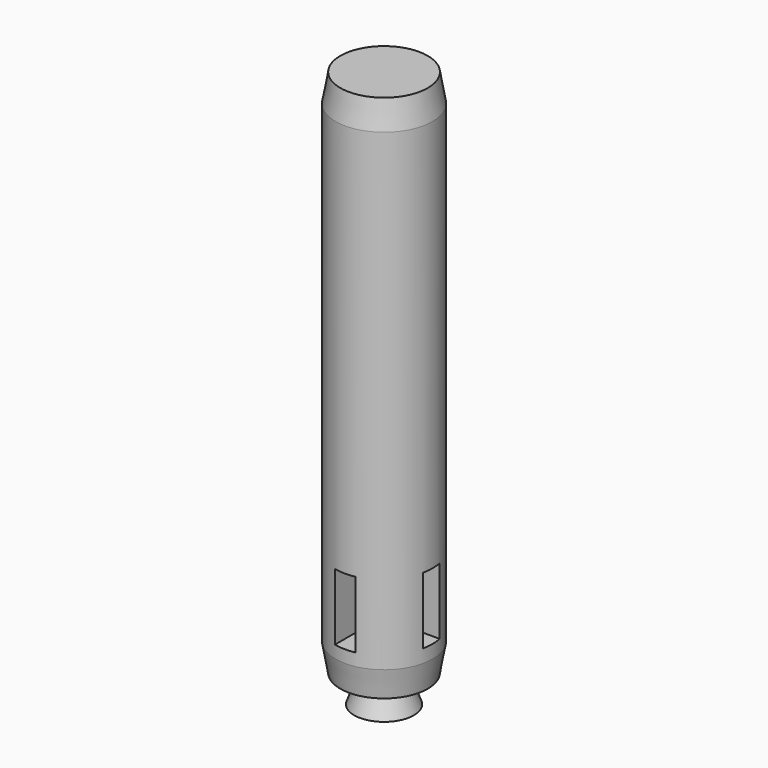
from build123d import *

# Parameters (mm, degrees)
F0_R           = 4.4323867957
F1_DEPTH       = 5.08
F1_DEPTH_BACK  = 38.1
F1_FACE_R      = 4.4323867957
F2_DEPTH       = 2.54
F2_TAPER       = 10
F1_FACE1_R     = 4.4323867957
F3_DEPTH       = 2.54
F3_TAPER       = 10
F4_R           = 1.7950151947
F5_DEPTH       = 2.54
F5_TAPER       = -20
F6_R           = 2.6311933972
F7_DEPTH       = 2.54
F7_TAPER       = 20
F8_W           = 1.8805181608
F8_H           = 6.0816761106
F9_DEPTH       = 25.4
F9_DEPTH_BACK  = 25.4
F10_W          = 1.8878498813
F10_H          = 6.0830730945
F11_DEPTH      = 25.4
F11_DEPTH_BACK = 25.4


with BuildPart() as f1:
    # F0 (on Top) → F1 (new body, two sides)
    with BuildSketch(Plane.XY) as f1_sk:
        Circle(F0_R)
    extrude(amount=F1_DEPTH)
    extrude(f1_sk.sketch, amount=-F1_DEPTH_BACK)

    # F1_face (on face) → F2 (join)
    with BuildSketch(Plane(origin=(0, 0, -38.1), x_dir=(1, 0, 0), z_dir=(0, 0, -1))):
        Circle(F1_FACE_R)
    extrude(amount=F2_DEPTH, taper=F2_TAPER)

    # F1_face1 (on face) → F3 (join)
    with BuildSketch(Plane.XY.offset(5.08)):
        Circle(F1_FACE1_R)
    extrude(amount=F3_DEPTH, taper=F3_TAPER)

    # F4 (on face) → F5 (join)
    with BuildSketch(Plane(origin=(0, 0, -40.64), x_dir=(1, 0, 0), z_dir=(0, 0, -1))):
        Circle(F4_R)
    extrude(amount=F5_DEPTH, taper=F5_TAPER)

    # F6 (on face) → F7 (cut)
    with BuildSketch(Plane(origin=(0, 0, -43.18), x_dir=(1, 0, 0), z_dir=(0, 0, -1))):
        Circle(F6_R)
    extrude(amount=-F7_DEPTH, taper=F7_TAPER, mode=Mode.SUBTRACT)

    # F8 (on Right) → F9 (cut, two sides)
    with BuildSketch(Plane.YZ) as f9_sk:
        with Locations((-0.0123365317, -33.8487112895)):
            Rectangle(F8_W, F8_H)
    extrude(amount=-F9_DEPTH, mode=Mode.SUBTRACT)
    extrude(f9_sk.sketch, amount=F9_DEPTH_BACK, mode=Mode.SUBTRACT)

    # F10 (on Front) → F11 (cut, two sides)
    with BuildSketch(Plane.XZ) as f11_sk:
        with Locations((-0.0861281878, -33.9269181713)):
            Rectangle(F10_W, F10_H)
    extrude(amount=-F11_DEPTH, mode=Mode.SUBTRACT)
    extrude(f11_sk.sketch, amount=F11_DEPTH_BACK, mode=Mode.SUBTRACT)


solid = f1.part
